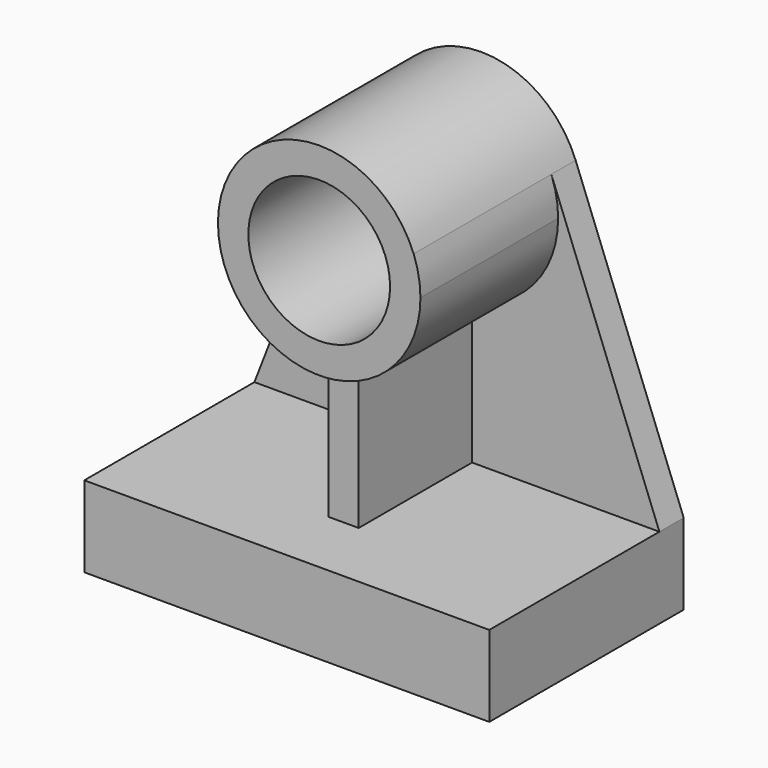
from build123d import *

# Parameters (mm, degrees)
F0_R     = 44.45
F1_DEPTH = 127
F2_DEPTH = 19.05
F3_DEPTH = 107.95
F4_DEPTH = 152.4
F5_DEPTH = 25.4


with BuildPart() as f1:
    # F0 (on Front) → F1 (new body)
    with BuildSketch(Plane.XZ):
        with BuildLine():
            ThreePointArc((186.227747, 226.098122), (127, 266.7), (67.772253, 226.098122))
            ThreePointArc((67.772253, 226.098122), (72.072893, 171.336809), (117.475, 140.418439))
            ThreePointArc((117.475, 140.418439), (127, 139.7), (136.525, 140.418439))
            ThreePointArc((136.525, 140.418439), (175.151259, 161.803065), (190.5, 203.2))
            ThreePointArc((190.5, 203.2), (189.4228, 214.846632), (186.227747, 226.098122))
        make_face()
        with Locations((127, 203.2)):
            Circle(F0_R, mode=Mode.SUBTRACT)
    extrude(amount=F1_DEPTH)

    # F0 (on Front) → F2 (join)
    with BuildSketch(Plane.XZ):
        with BuildLine():
            Line((136.525, 50.8), (254, 50.8))
            Line((254, 50.8), (186.227747, 226.098122))
            ThreePointArc((186.227747, 226.098122), (189.4228, 214.846632), (190.5, 203.2))
            ThreePointArc((190.5, 203.2), (175.151259, 161.803065), (136.525, 140.418439))
            Line((136.525, 140.418439), (136.525, 50.8))
        make_face()
        with BuildLine():
            Line((67.772253, 226.098122), (0, 50.8))
            Line((0, 50.8), (117.475, 50.8))
            Line((117.475, 50.8), (117.475, 140.418439))
            ThreePointArc((117.475, 140.418439), (72.072893, 171.336809), (67.772253, 226.098122))
        make_face()
    extrude(amount=F2_DEPTH)

    # F0 (on Front) → F3 (join)
    with BuildSketch(Plane.XZ):
        with BuildLine():
            Line((117.475, 140.418439), (117.475, 50.8))
            Line((117.475, 50.8), (136.525, 50.8))
            Line((136.525, 50.8), (136.525, 140.418439))
            ThreePointArc((136.525, 140.418439), (127, 139.7), (117.475, 140.418439))
        make_face()
    extrude(amount=F3_DEPTH)

    # F0 (on Front) → F4 (join)
    with BuildSketch(Plane.XZ):
        Polygon((0, 50.8), (0, 0), (254, 0), (254, 50.8), (136.525, 50.8), (117.475, 50.8), align=None)
    extrude(amount=F4_DEPTH)

    # F0 (on Front) → F5 (join)
    with BuildSketch(Plane.XZ):
        with BuildLine():
            ThreePointArc((186.227747, 226.098122), (127, 266.7), (67.772253, 226.098122))
            ThreePointArc((67.772253, 226.098122), (72.072893, 171.336809), (117.475, 140.418439))
            ThreePointArc((117.475, 140.418439), (127, 139.7), (136.525, 140.418439))
            ThreePointArc((136.525, 140.418439), (175.151259, 161.803065), (190.5, 203.2))
            ThreePointArc((190.5, 203.2), (189.4228, 214.846632), (186.227747, 226.098122))
        make_face()
        with Locations((127, 203.2)):
            Circle(F0_R, mode=Mode.SUBTRACT)
        Polygon((0, 50.8), (0, 0), (254, 0), (254, 50.8), (136.525, 50.8), (117.475, 50.8), align=None)
    extrude(amount=F5_DEPTH)


solid = f1.part
